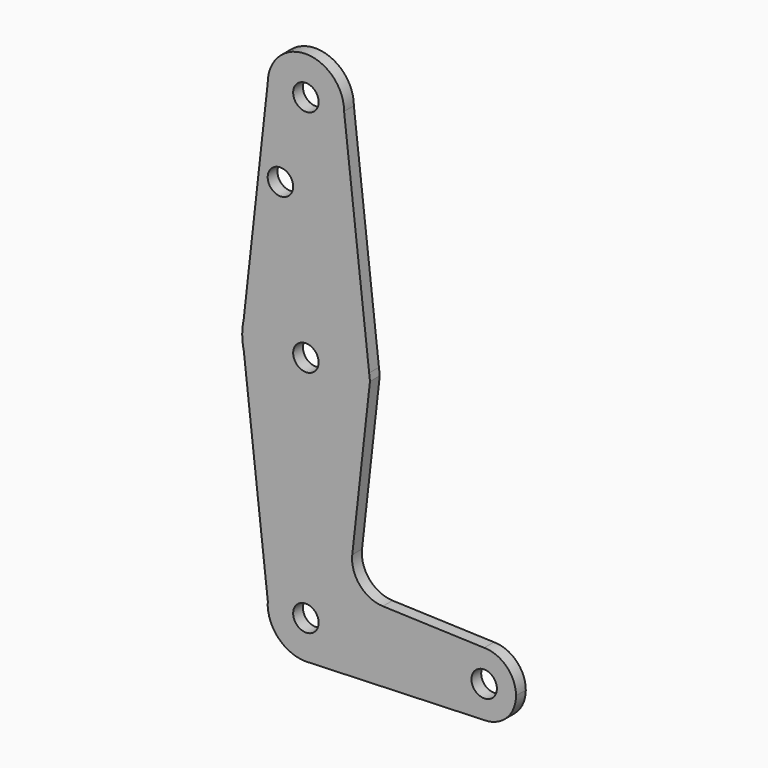
from build123d import *

# Parameters (mm, degrees)
F0_R     = 3.175
F1_DEPTH = 3.048


with BuildPart() as f1:
    # F0 (on Front) → F1 (new body)
    with BuildSketch(Plane.XZ):
        with BuildLine():
            ThreePointArc((-9.525, 114.3), (0, 104.775), (9.525, 114.3))
            ThreePointArc((9.525, 114.3), (0, 123.825), (-9.525, 114.3))
        make_face()
        with Locations((0, 114.3)):
            Circle(F0_R, mode=Mode.SUBTRACT)
        with BuildLine():
            Line((15.7748263281, 58.9305839824), (9.525, 114.3))
            ThreePointArc((9.525, 114.3), (0, 104.775), (-9.525, 114.3))
            Line((-9.525, 114.3), (-15.487804878, 60.6347560976))
            ThreePointArc((-15.487804878, 60.6347560976), (0.8640867883, 73.0014661474), (15.7748263281, 58.9305839824))
        make_face()
        with Locations((-6.35, 93.6752)):
            Circle(F0_R, mode=Mode.SUBTRACT)
        with BuildLine():
            Line((15.9758098575, 57.15), (15.7748263281, 58.9305839824))
            ThreePointArc((15.7748263281, 58.9305839824), (15.8499367973, 58.0416997929), (15.875, 57.15))
            ThreePointArc((15.875, 57.15), (1.7805845108, 41.3751737315), (-15.4755692976, 53.6113025116))
            Line((-15.4755692976, 53.6113025116), (-9.5007926517, 0.6786486498))
            ThreePointArc((-9.5007926517, 0.6786486498), (0.3395401249, 9.5189462391), (9.525, 0))
            ThreePointArc((9.525, 0), (6.9712901065, -6.4905114784), (0.6794904459, -9.5007324841))
            Line((0.6794904459, -9.5007324841), (44.45, -7.9375))
            ThreePointArc((44.45, -7.9375), (36.5125, 0), (44.45, 7.9375))
            Line((44.45, 7.9375), (19.1775817852, 8.8400863648))
            ThreePointArc((19.1775817852, 8.8400863648), (13.4418676571, 11.5917949126), (11.5603927796, 17.6688310962))
            Line((11.5603927796, 17.6688310962), (15.9758098575, 57.15))
        make_face()
        with BuildLine():
            ThreePointArc((15.875, 57.15), (15.8499367973, 58.0416997929), (15.7748263281, 58.9305839824))
            ThreePointArc((15.7748263281, 58.9305839824), (0.8640867883, 73.0014661474), (-15.487804878, 60.6347560976))
            Line((-15.487804878, 60.6347560976), (-15.875, 57.15))
            Line((-15.875, 57.15), (-15.4755692976, 53.6113025116))
            ThreePointArc((-15.4755692976, 53.6113025116), (1.7805845108, 41.3751737315), (15.875, 57.15))
        make_face()
        with Locations((0, 57.15)):
            Circle(F0_R, mode=Mode.SUBTRACT)
        with BuildLine():
            Line((-15.875, 57.15), (-15.487804878, 60.6347560976))
            ThreePointArc((-15.487804878, 60.6347560976), (-15.7779042879, 58.9031004764), (-15.875, 57.15))
        make_face()
        with BuildLine():
            Line((-15.4755692976, 53.6113025116), (-15.875, 57.15))
            ThreePointArc((-15.875, 57.15), (-15.7748262685, 55.3694154892), (-15.4755692976, 53.6113025116))
        make_face()
        with BuildLine():
            ThreePointArc((9.525, 0), (0.3395401249, 9.5189462391), (-9.5007926517, 0.6786486498))
            ThreePointArc((-9.5007926517, 0.6786486498), (-6.9710025602, -6.4908203107), (0, -9.525))
            Line((0, -9.525), (0.6794904459, -9.5007324841))
            ThreePointArc((0.6794904459, -9.5007324841), (6.9712901065, -6.4905114784), (9.525, 0))
        make_face()
        Circle(F0_R, mode=Mode.SUBTRACT)
        with BuildLine():
            Line((0.6794904459, -9.5007324841), (0, -9.525))
            ThreePointArc((0, -9.525), (0.3399618281, -9.5189311877), (0.6794904459, -9.5007324841))
        make_face()
        with BuildLine():
            ThreePointArc((52.3875, 0), (50.0626600757, 5.6126600757), (44.45, 7.9375))
            ThreePointArc((44.45, 7.9375), (36.5125, 0), (44.45, -7.9375))
            ThreePointArc((44.45, -7.9375), (50.0626600757, -5.6126600757), (52.3875, 0))
        make_face()
        with Locations((44.45, 0)):
            Circle(F0_R, mode=Mode.SUBTRACT)
    extrude(amount=F1_DEPTH)


solid = f1.part
